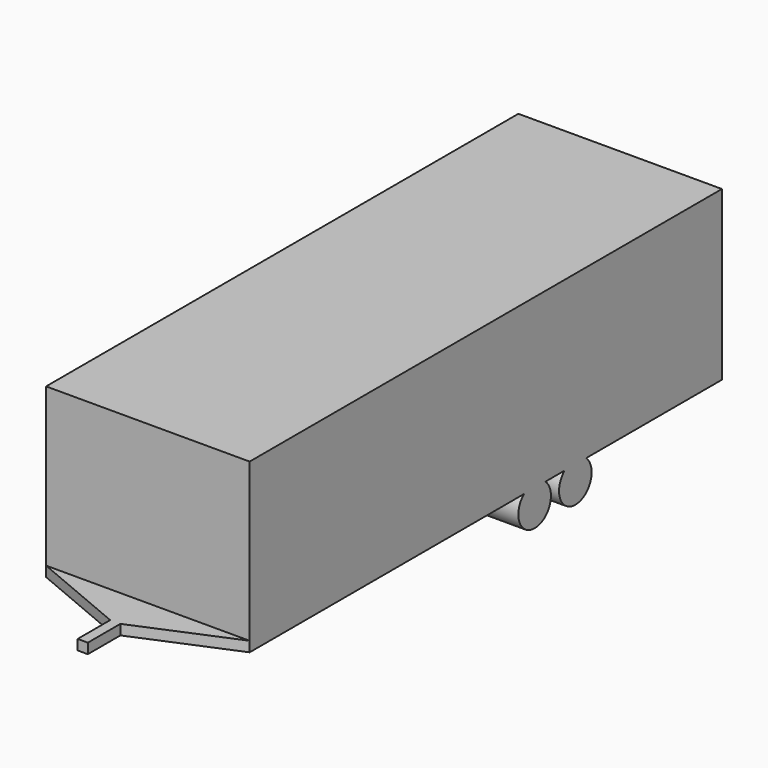
from build123d import *

# Parameters (mm, degrees)
F0_W     = 152.4
F0_H     = 609.6
F0_W_2   = 3048
F0_H_2   = 8839.2
F1_DEPTH = 3048
F2_W     = 1219.2
F2_H     = 2362.2
F3_DEPTH = 3048.001


with BuildPart() as f1:
    # F0 (on Top) → F1 (new body)
    with BuildSketch(Plane.XY):
        Rectangle(F0_W, F0_H)
        Polygon((-76.2, 304.8), (76.2, 304.8), (1524, 914.4), (-1524, 914.4), align=None)
        with Locations((0, 5334)):
            Rectangle(F0_W_2, F0_H_2)
    extrude(amount=F1_DEPTH)

    # F2 (on face) → F3 (cut, through all)
    with BuildSketch(Plane(origin=(-1524, 0, 0), x_dir=(0, -1, 0), z_dir=(-1, 0, 0))):
        with BuildLine():
            ThreePointArc((-6046.79375, 533.4), (-5963.285707, 197.036927), (-6248.4, 0))
            Line((-6248.4, 0), (304.8, 0))
            Line((304.8, 0), (304.8, 533.4))
            Line((304.8, 533.4), (-6046.79375, 533.4))
        make_face()
        with BuildLine():
            ThreePointArc((-6808.79375, 533.4), (-6725.285707, 197.036927), (-7010.4, 0))
            Line((-7010.4, 0), (-6248.4, 0))
            ThreePointArc((-6248.4, 0), (-6533.514293, 197.036927), (-6450.00625, 533.4))
            Line((-6450.00625, 533.4), (-6808.79375, 533.4))
        make_face()
        with BuildLine():
            Line((-7212.00625, 533.4), (-9753.6, 533.4))
            Line((-9753.6, 533.4), (-9753.6, 0))
            Line((-9753.6, 0), (-7010.4, 0))
            ThreePointArc((-7010.4, 0), (-7295.514293, 197.036927), (-7212.00625, 533.4))
        make_face()
        with Locations((-304.8, 1866.9)):
            Rectangle(F2_W, F2_H)
    extrude(amount=-F3_DEPTH, mode=Mode.SUBTRACT)


solid = f1.part
